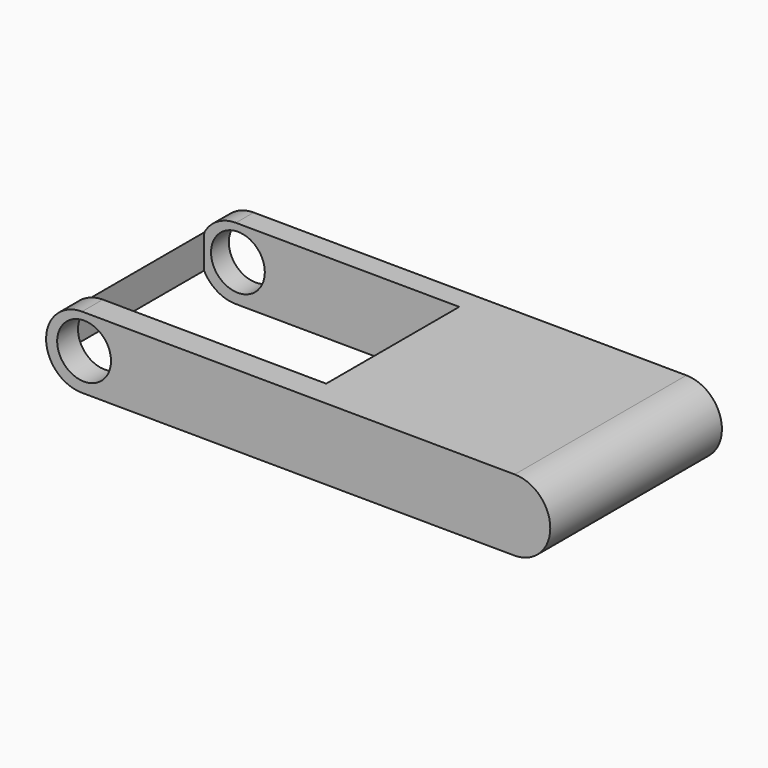
from build123d import *

# Parameters (mm, degrees)
PAD008_DEPTH    = 40
SKETCH020_W     = 47.513529
SKETCH020_H     = 31
POCKET_DEPTH    = 13.86915
SKETCH021_R     = 5.014167
POCKET003_DEPTH = 40.001
SKETCH023_R     = 12.5
POCKET004_DEPTH = 10


with BuildPart() as part:
    # Sketch019 → Pad008 (new body)
    with BuildSketch(Plane.XZ):
        with BuildLine():
            ThreePointArc((-387.921003, 387.560344), (-394.628778, 380.934115), (-388.002549, 374.22634))
            Line((-388.002549, 374.22634), (-307.347505, 373.733083))
            ThreePointArc((-307.347505, 373.733083), (-300.63973, 380.359312), (-307.265959, 387.067087))
            Line((-307.265959, 387.067087), (-387.921003, 387.560344))
        make_face()
    extrude(amount=PAD008_DEPTH)

    # Sketch020 (on Face4 of Pad008) → Pocket (cut, through all)
    with BuildSketch(Plane(origin=(2.355584, 0, 385.173552), x_dir=(-0.999981, 0, 0.006116), z_dir=(0.006116, 0, 0.999981))):
        with Locations((372.402601, 19.654769)):
            Rectangle(SKETCH020_W, SKETCH020_H)
    extrude(amount=-POCKET_DEPTH, mode=Mode.SUBTRACT)

    # Sketch021 (on Face2 of Pocket) → Pocket003 (cut, through all)
    with BuildSketch(Plane(origin=(0, 0, 0), x_dir=(1, 0, 0), z_dir=(0, 1, 0))):
        with Locations((-387.543732, -381.199341)):
            Circle(SKETCH021_R)
    extrude(amount=-POCKET003_DEPTH, mode=Mode.SUBTRACT)

    # Sketch023 → Pocket004 (cut)
    with BuildSketch(Plane(origin=(2.27, 3, 372.84), x_dir=(1, 0, 0), z_dir=(0, 0, -1))):
        with Locations((-325.294282, 20.777986)):
            Circle(SKETCH023_R)
    extrude(amount=-POCKET004_DEPTH, mode=Mode.SUBTRACT)


with BuildPart() as part_1:
    # Body010 placement: moved
    add(part.part.moved(Location((0, 18, 0))))


solid = part_1.part
